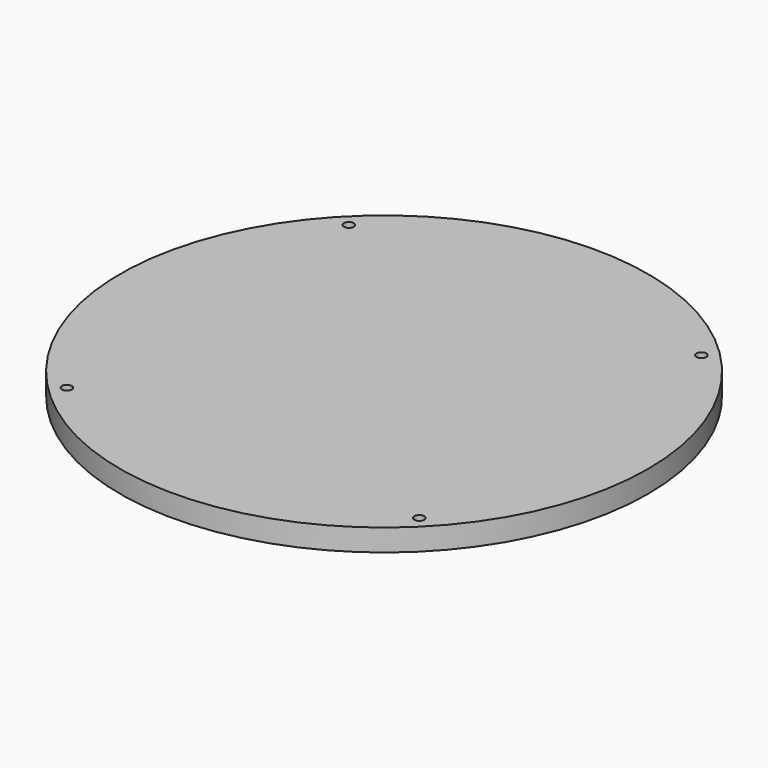
from build123d import *

# Parameters (mm, degrees)
F0_R     = 114.3
F1_DEPTH = 9.525
F2_R     = 2.15265
F3_DEPTH = 3.175
F4_R     = 2.15265
F5_DEPTH = 3.175


with BuildPart() as f1:
    # F0 (on Top) → F1 (new body)
    with BuildSketch(Plane.XY):
        Circle(F0_R)
    extrude(amount=F1_DEPTH)

    # F2 (on face) → F3 (cut)
    with BuildSketch(Plane.XY.offset(9.525)):
        with Locations((-76.332177, 76.332177)):
            Circle(F2_R)
        with Locations((76.332177, 76.332177)):
            Circle(F2_R)
        with Locations((76.332177, -76.332177)):
            Circle(F2_R)
        with Locations((-76.332177, -76.332177)):
            Circle(F2_R)
    extrude(amount=-F3_DEPTH, mode=Mode.SUBTRACT)

    # F4 (on face) → F5 (cut)
    with BuildSketch(Plane(origin=(0, 0, 0), x_dir=(1, 0, 0), z_dir=(0, 0, -1))):
        with Locations((-76.332177, 76.332177)):
            Circle(F4_R)
        with Locations((76.332177, 76.332177)):
            Circle(F4_R)
        with Locations((76.332177, -76.332177)):
            Circle(F4_R)
        with Locations((-76.332177, -76.332177)):
            Circle(F4_R)
    extrude(amount=-F5_DEPTH, mode=Mode.SUBTRACT)


solid = f1.part
